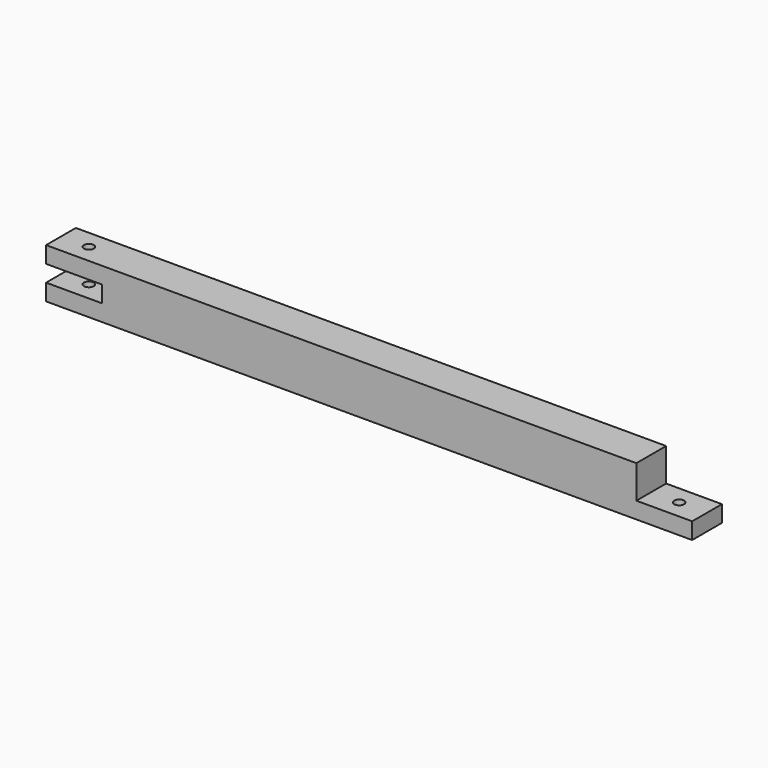
from build123d import *

# Parameters (mm, degrees)
F0_W     = 7.14375
F0_H     = 4.7625
F0_R     = 0.635
F0_W_2   = 68.4589182
F1_DEPTH = 2.1166666667
F2_DEPTH = 4.2333333333
F3_START = 4.2333333333
F3_DEPTH = 2.1166666667


with BuildPart() as f1:
    # F0 (on Top) → F1 (new body)
    with BuildSketch(Plane.XY):
        with Locations((-37.8013341, 0)):
            Rectangle(F0_W, F0_H)
        with Locations((-37.8013341, 0)):
            Circle(F0_R, mode=Mode.SUBTRACT)
        Rectangle(F0_W_2, F0_H)
        with Locations((37.8013341, 0)):
            Rectangle(F0_W, F0_H)
        with Locations((37.8013341, 0)):
            Circle(F0_R, mode=Mode.SUBTRACT)
    extrude(amount=F1_DEPTH)

    # F0 (on Top) → F2 (join)
    with BuildSketch(Plane.XY):
        Rectangle(F0_W_2, F0_H)
    extrude(amount=F2_DEPTH)

    # F0 (on Top) → F3 (join)
    with BuildSketch(Plane.XY.offset(F3_START)):
        with Locations((-37.8013341, 0)):
            Rectangle(F0_W, F0_H)
        with Locations((-37.8013341, 0)):
            Circle(F0_R, mode=Mode.SUBTRACT)
        Rectangle(F0_W_2, F0_H)
    extrude(amount=F3_DEPTH)


solid = f1.part
